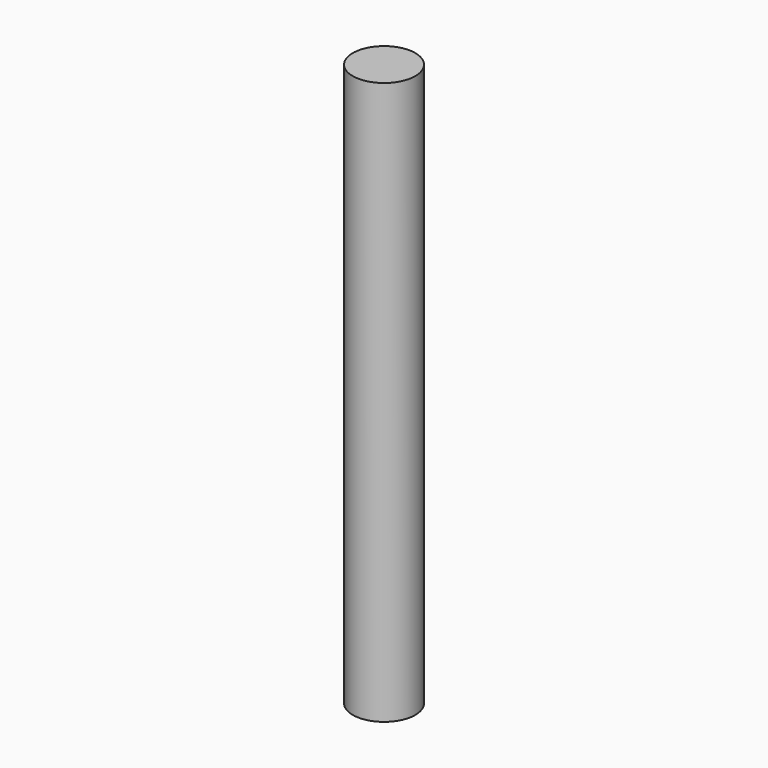
from build123d import *

# Parameters (mm, degrees)
SKETCH_R  = 2.5
PAD_DEPTH = 45


with BuildPart() as part:
    # Sketch → Pad (new body)
    with BuildSketch(Plane.XY):
        Circle(SKETCH_R)
    extrude(amount=PAD_DEPTH)


solid = part.part
